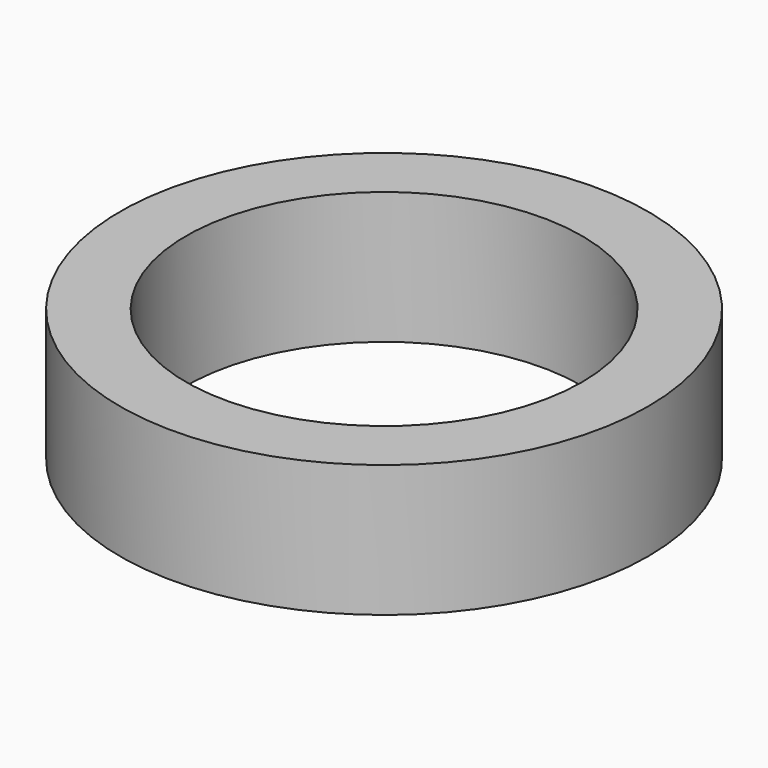
from build123d import *

# Parameters (mm, degrees)
F0_R     = 80
F1_DEPTH = 40
F2_R     = 60
F3_DEPTH = 40.001


with BuildPart() as f1:
    # F0 (on Top) → F1 (new body)
    with BuildSketch(Plane.XY):
        Circle(F0_R)
    extrude(amount=F1_DEPTH)

    # F2 (on face) → F3 (cut, through all)
    with BuildSketch(Plane.XY):
        Circle(F2_R)
    extrude(amount=F3_DEPTH, mode=Mode.SUBTRACT)


solid = f1.part
